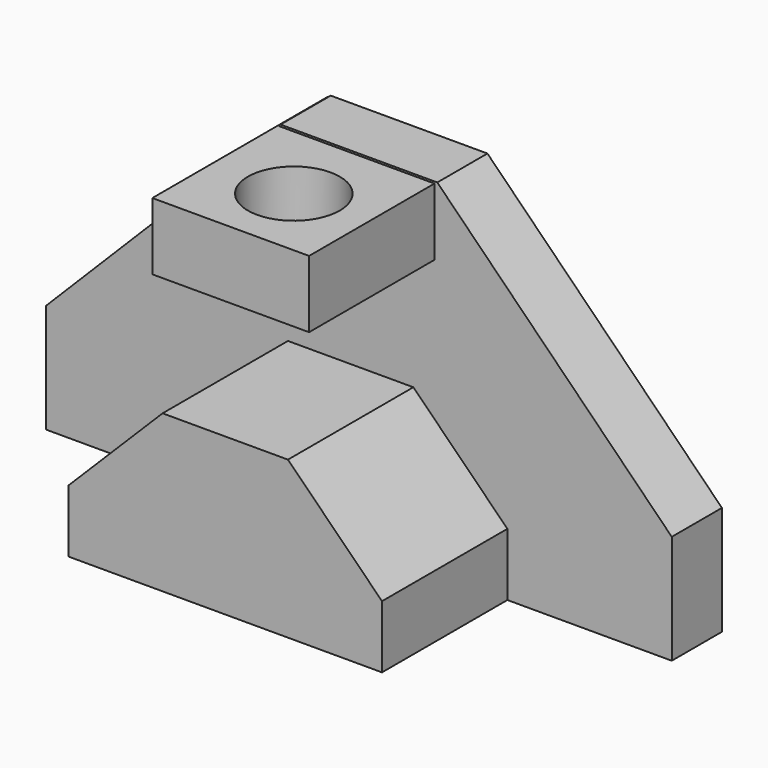
from build123d import *

# Parameters (mm, degrees)
F1_DEPTH = 44.45
F3_DEPTH = 12.7
F4_W     = 31.75
F4_H     = 13.6071431206
F5_DEPTH = 44.45
F7_START = 54.864
F6_R     = 9.3076399549
F7_DEPTH = 60.706


with BuildPart() as f1:
    # F0 (on Front) → F1 (new body)
    with BuildSketch(Plane.XZ):
        Polygon((13.5610163573, 31.75), (-11.8389836427, 31.75), (-30.8889836427, 12.7), (-30.8889836427, 0), (32.6110163573, 0), (32.6110163573, 12.7), align=None)
        Polygon((13.5610163573, 31.75), (-11.8389836427, 31.75), (-30.8889836427, 12.7), (-30.8889836427, 0), (32.6110163573, 0), (32.6110163573, 12.7), align=None)
    extrude(amount=F1_DEPTH)

    # F2 (on Front) → F3 (join)
    with BuildSketch(Plane.XZ):
        Polygon((18.4121006752, 69.85), (-13.3378993248, 69.85), (-60.8358993248, 22.098), (-60.8358993248, 0), (65.9101006752, 0), (65.9101006752, 22.098), align=None)
    extrude(amount=F3_DEPTH)

    # F4 (on Front) → F5 (join)
    with BuildSketch(Plane.XZ):
        with Locations((1.9634375349, 62.6644603908)):
            Rectangle(F4_W, F4_H)
    extrude(amount=F5_DEPTH)

    # F6 (on Top) → F7 (cut)
    with BuildSketch(Plane.XY.offset(F7_START)):
        with Locations((2.6179165579, -29.2897745967)):
            Circle(F6_R)
    extrude(amount=F7_DEPTH, mode=Mode.SUBTRACT)


solid = f1.part
